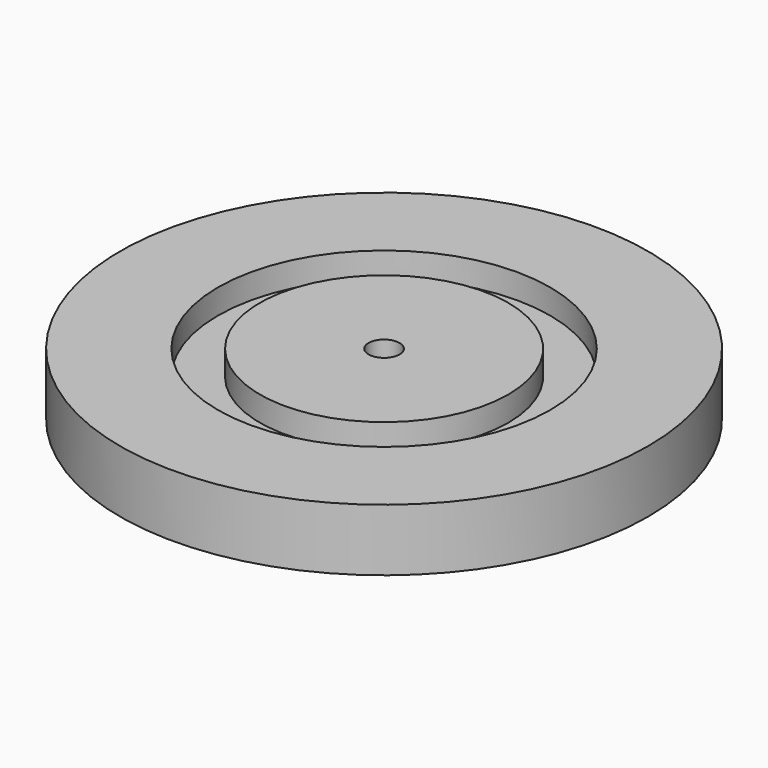
from build123d import *

# Parameters (mm, degrees)
F0_R     = 85
F1_DEPTH = 20
F2_R     = 53.5
F2_R_2   = 40
F3_DEPTH = 8
F4_R     = 5
F5_DEPTH = 20.001


with BuildPart() as f1:
    # F0 (on Top) → F1 (new body)
    with BuildSketch(Plane.XY):
        Circle(F0_R)
    extrude(amount=F1_DEPTH)

    # F2 (on face) → F3 (cut)
    with BuildSketch(Plane.XY.offset(20)):
        Circle(F2_R)
        Circle(F2_R_2, mode=Mode.SUBTRACT)
    extrude(amount=-F3_DEPTH, mode=Mode.SUBTRACT)

    # F4 (on face) → F5 (cut, through all)
    with BuildSketch(Plane.XY.offset(20)):
        Circle(F4_R)
    extrude(amount=-F5_DEPTH, mode=Mode.SUBTRACT)


solid = f1.part
